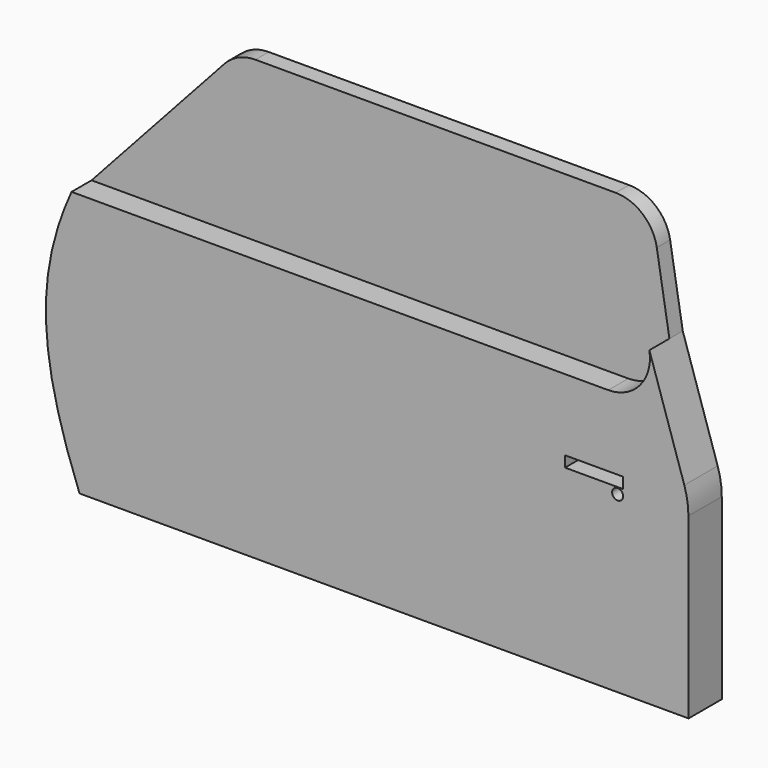
from build123d import *

# Parameters (mm, degrees)
F0_W     = 8.849032
F0_H     = 1.659194
F0_R     = 0.836898
F1_DEPTH = 6.35
F2_DEPTH = 2.54


with BuildPart() as f1:
    # F0 (on Front) → F1 (new body)
    with BuildSketch(Plane.XZ):
        with BuildLine():
            add(Edge.make_bspline(
                [(-20.928277, -25.388161), (-27.175156, -9.163886), (-27.863288, 2.017429), (-22.137927, 14.654852)],
                knots=[0, 0, 0, 0, 40.06128, 40.06128, 40.06128, 40.06128], degree=3))
            Line((-20.928277, -25.388161), (71.824277, -25.388161))
            Line((71.824277, -25.388161), (71.799657, 1.762417))
            ThreePointArc((71.799657, 1.762417), (71.642332, 3.743748), (71.177803, 5.676268))
            Line((71.177803, 5.676268), (65.858357, 22.043917))
            ThreePointArc((65.858357, 22.043917), (64.437527, 16.898489), (59.593946, 14.654852))
            Line((59.593946, 14.654852), (-22.137927, 14.654852))
        make_face()
        with Locations((57.434231, 2.949678)):
            Rectangle(F0_W, F0_H, mode=Mode.SUBTRACT)
        with Locations((61.02185, 1.155224)):
            Circle(F0_R, mode=Mode.SUBTRACT)
    extrude(amount=F1_DEPTH)

    # F0 (on Front) → F2 (join)
    with BuildSketch(Plane.XZ):
        with BuildLine():
            add(Edge.make_bspline(
                [(-20.928277, -25.388161), (-27.175156, -9.163886), (-27.863288, 2.017429), (-22.137927, 14.654852)],
                knots=[0, 0, 0, 0, 40.06128, 40.06128, 40.06128, 40.06128], degree=3))
            Line((-20.928277, -25.388161), (71.824277, -25.388161))
            Line((71.824277, -25.388161), (71.799657, 1.762417))
            ThreePointArc((71.799657, 1.762417), (71.642332, 3.743748), (71.177803, 5.676268))
            Line((71.177803, 5.676268), (65.858357, 22.043917))
            ThreePointArc((65.858357, 22.043917), (64.437527, 16.898489), (59.593946, 14.654852))
            Line((59.593946, 14.654852), (-22.137927, 14.654852))
        make_face()
        with Locations((57.434231, 2.949678)):
            Rectangle(F0_W, F0_H, mode=Mode.SUBTRACT)
        with Locations((61.02185, 1.155224)):
            Circle(F0_R, mode=Mode.SUBTRACT)
        with BuildLine():
            Line((-1.888911, 36.86728), (-22.137927, 14.654852))
            Line((-22.137927, 14.654852), (59.593946, 14.654852))
            ThreePointArc((59.593946, 14.654852), (64.437527, 16.898489), (65.858357, 22.043917))
            Line((65.858357, 22.043917), (63.936861, 33.62841))
            ThreePointArc((63.936861, 33.62841), (61.778813, 37.432927), (57.67245, 38.939346))
            Line((57.67245, 38.939346), (2.803826, 38.939346))
            ThreePointArc((2.803826, 38.939346), (0.238907, 38.398278), (-1.888911, 36.86728))
        make_face()
    extrude(amount=F2_DEPTH)


solid = f1.part
